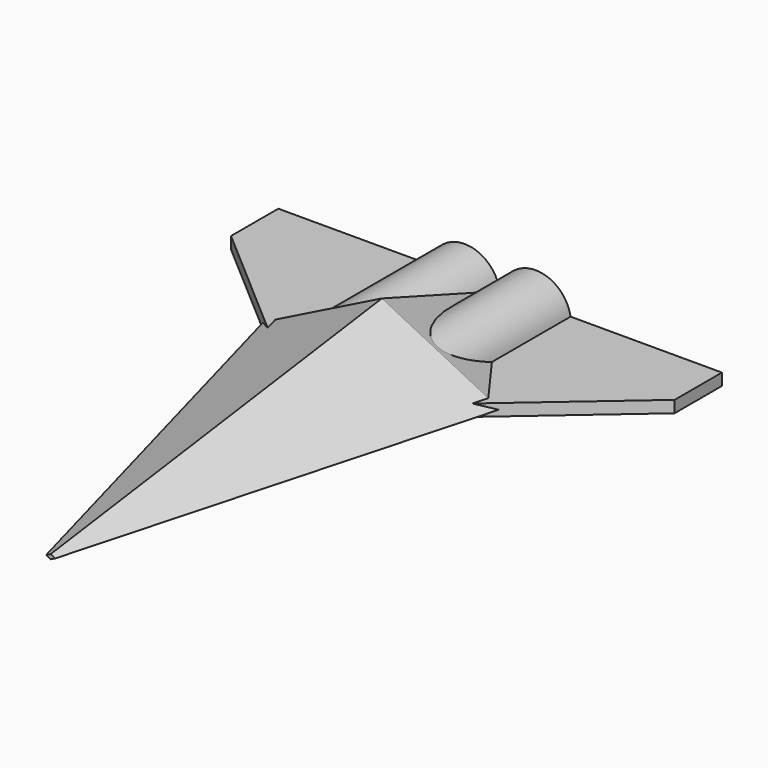
from build123d import *

# Parameters (mm, degrees)
F1_DEPTH      = 140
F1_TAPER      = 7
F1_DEPTH_BACK = 50
F1_TAPER_BACK = 18
F3_DEPTH      = 2
F4_R          = 12
F5_DEPTH      = 50


with BuildPart() as f1:
    # F0 (on Front) → F1 (new body, two sides)
    with BuildSketch(Plane.XZ) as f1_sk:
        Polygon((0, 20), (-40, 0), (0, -20), (40, 0), align=None)
    extrude(amount=F1_DEPTH, taper=F1_TAPER)
    extrude(f1_sk.sketch, amount=-F1_DEPTH_BACK, taper=F1_TAPER_BACK)

    # F2 (on Top) → F3 (join, symmetric)
    with BuildSketch(Plane.XY):
        Polygon((0, 50), (0, -35), (75.0196278095, 30), (75.0196278095, 50), align=None)
        Polygon((-75.0196278095, 30), (0, -35), (0, 50), (-75.0196278095, 50), align=None)
    extrude(amount=F3_DEPTH, both=True)

    # F4 (on Front) → F5 (join)
    with BuildSketch(Plane.XZ):
        with BuildLine():
            ThreePointArc((0, 0), (12, -12), (24, 0))
            ThreePointArc((24, 0), (12, 12), (0, 0))
        make_face()
        with Locations((-12, 0)):
            Circle(F4_R)
    extrude(amount=-F5_DEPTH)


solid = f1.part
